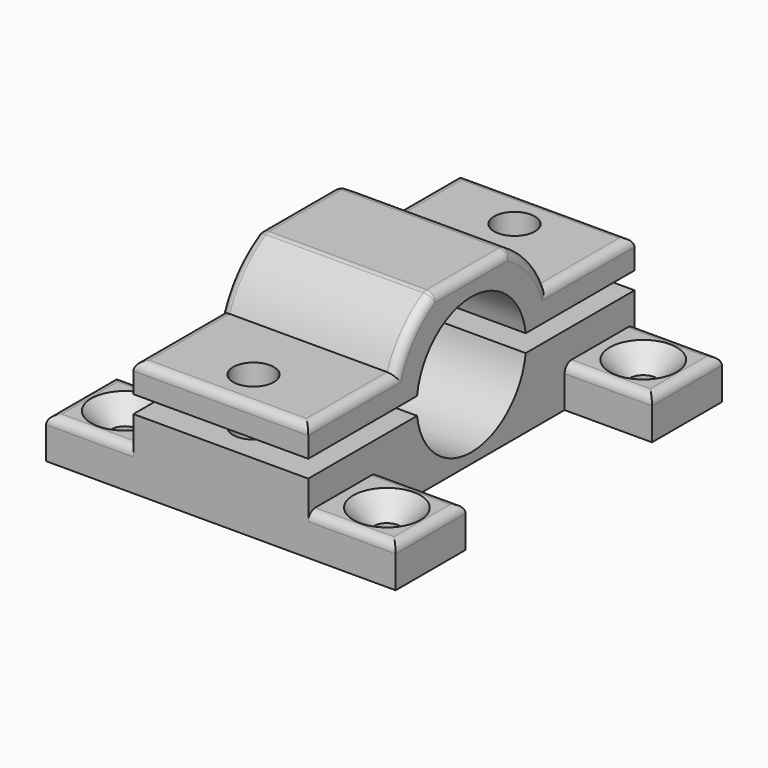
from build123d import *

# Parameters (mm, degrees)
F0_W      = 30
F0_H      = 70
F1_DEPTH  = 12
F2_W      = 70
F2_H      = 14
F3_DEPTH  = 15
F5_DEPTH  = 15
F7_DEPTH  = 15
F9_DEPTH  = 20.001
F11_DEPTH = 5
F12_W     = 15
F12_H     = 15
F12_R     = 2.25
F13_DEPTH = 7
F14_SIZE  = 3.5
F15_R     = 1.5
F15_2_R   = 1.5


with BuildPart() as f1:
    # F0 (on Top) → F1 (new body)
    with BuildSketch(Plane.XY):
        Rectangle(F0_W, F0_H)
    extrude(amount=F1_DEPTH)


with BuildPart() as f3:
    # F2 (on Right) → F3 (new body, symmetric)
    with BuildSketch(Plane.YZ):
        with Locations((0, 22)):
            Rectangle(F2_W, F2_H)
    extrude(amount=F3_DEPTH, both=True)


with BuildPart() as f5_tool:
    # F4 (on Right) → F5 (new body, symmetric)
    with BuildSketch(Plane.YZ):
        with BuildLine():
            ThreePointArc((11.75, 13.5), (0, 25.25), (-11.75, 13.5))
            Line((-11.75, 13.5), (0, 13.5))
            Line((0, 13.5), (0, 12))
            Line((0, 12), (-11.6538620208, 12))
            ThreePointArc((-11.6538620208, 12), (0.7515388398, 1.7740591264), (11.75, 13.5))
        make_face()
        with BuildLine():
            Line((0, 13.5), (-11.75, 13.5))
            ThreePointArc((-11.75, 13.5), (-11.7259408736, 12.7484611602), (-11.6538620208, 12))
            Line((-11.6538620208, 12), (0, 12))
            Line((0, 12), (0, 13.5))
        make_face()
    extrude(amount=F5_DEPTH, both=True)


with BuildPart() as f1_1:
    add(f1.part)

    # F5: cut by f5_tool
    add(f5_tool.part, mode=Mode.SUBTRACT)


with BuildPart() as f3_1:
    add(f3.part)

    # F5: cut by f5_tool
    add(f5_tool.part, mode=Mode.SUBTRACT)

    # F6 (on Right) → F7 (cut, symmetric)
    with BuildSketch(Plane.YZ):
        with BuildLine():
            ThreePointArc((-16.2480768093, 20), (-12.9903810568, 25.2260393996), (-8.1240384046, 29))
            Line((-8.1240384046, 29), (-35, 29))
            Line((-35, 29), (-35, 20))
            Line((-35, 20), (-16.2480768093, 20))
        make_face()
        with BuildLine():
            Line((35, 20), (35, 29))
            Line((35, 29), (8.1240384046, 29))
            ThreePointArc((8.1240384046, 29), (12.9903810568, 25.2260393996), (16.2480768093, 20))
            Line((16.2480768093, 20), (35, 20))
        make_face()
    extrude(amount=F7_DEPTH, both=True, mode=Mode.SUBTRACT)


with BuildPart() as f9_tool:
    # F8 (on face) → F9 (new body, through all)
    with BuildSketch(Plane.XY.offset(20)):
        with BuildLine():
            Line((3.5, 28), (-3.5, 28))
            ThreePointArc((-3.5, 28), (0, 24.5), (3.5, 28))
        make_face()
        with BuildLine():
            Line((3.5, -28), (-3.5, -28))
            ThreePointArc((-3.5, -28), (0, -31.5), (3.5, -28))
        make_face()
        with BuildLine():
            ThreePointArc((3.5, -28), (0, -24.5), (-3.5, -28))
            Line((-3.5, -28), (3.5, -28))
        make_face()
        with BuildLine():
            ThreePointArc((3.5, 28), (0, 31.5), (-3.5, 28))
            Line((-3.5, 28), (3.5, 28))
        make_face()
    extrude(amount=-F9_DEPTH)


with BuildPart() as f1_2:
    add(f1_1.part)

    # F9: cut by f9_tool
    add(f9_tool.part, mode=Mode.SUBTRACT)

    # F10 (on Top) → F11 (cut)
    with BuildSketch(Plane.XY):
        Polygon((3.4641016151, -22), (-3.4641016151, -22), (-6.9282032303, -28), (-3.4641016151, -34), (3.4641016151, -34), (6.9282032303, -28), align=None)
        Polygon((3.4641016151, 21.9635427939), (6.9282032303, 27.9635427939), (3.4641016151, 33.9635427939), (-3.4641016151, 33.9635427939), (-6.9282032303, 27.9635427939), (-3.4641016151, 21.9635427939), align=None)
    extrude(amount=F11_DEPTH, mode=Mode.SUBTRACT)

    # F12 (on Top) → F13 (join)
    with BuildSketch(Plane.XY):
        with Locations((-22.5, 27.5)):
            Rectangle(F12_W, F12_H)
        with Locations((-22.5, 27.5)):
            Circle(F12_R, mode=Mode.SUBTRACT)
        with Locations((-22.5, -27.5)):
            Rectangle(F12_W, F12_H)
        with Locations((-22.5, -27.5)):
            Circle(F12_R, mode=Mode.SUBTRACT)
        with Locations((22.5, -27.5)):
            Rectangle(F12_W, F12_H)
        with Locations((22.5, -27.5)):
            Circle(F12_R, mode=Mode.SUBTRACT)
        with Locations((22.5, 27.5)):
            Rectangle(F12_W, F12_H)
        with Locations((22.5, 27.5)):
            Circle(F12_R, mode=Mode.SUBTRACT)
    extrude(amount=F13_DEPTH)

    # F14
    f14_edges = [f1_2.edges().sort_by_distance(p)[0] for p in [
        (-24.75, 27.5, 7),
        (20.25, 27.5, 7),
        (20.25, -27.5, 7),
        (-24.75, -27.5, 7),
    ]]
    chamfer(f14_edges, length=F14_SIZE)

    # F15#2
    f15_2_edges = [f1_2.edges().sort_by_distance(p)[0] for p in [
        (-22.5, -35, 7),
        (-30, -27.5, 7),
        (-22.5, -20, 7),
        (22.5, -35, 7),
        (30, -27.5, 7),
        (22.5, -20, 7),
        (22.5, 20, 7),
        (30, 27.5, 7),
        (22.5, 35, 7),
        (-22.5, 35, 7),
        (-30, 27.5, 7),
        (-22.5, 20, 7),
    ]]
    fillet(f15_2_edges, radius=F15_2_R)


with BuildPart() as f3_2:
    add(f3_1.part)

    # F9: cut by f9_tool
    add(f9_tool.part, mode=Mode.SUBTRACT)

    # F15
    f15_edges = [f3_2.edges().sort_by_distance(p)[0] for p in [
        (-15, 25.624038, 20),
        (0, 35, 20),
        (15, 25.624038, 20),
        (15, 12.990381, 25.226039),
        (-15, 12.990381, 25.226039),
        (-15, 0, 29),
        (15, 0, 29),
        (15, -12.990381, 25.226039),
        (-15, -12.990381, 25.226039),
        (-15, -25.624038, 20),
        (0, -35, 20),
        (15, -25.624038, 20),
        (0, -8.124038, 29),
        (0, 8.124038, 29),
    ]]
    fillet(f15_edges, radius=F15_R)


solid = Compound([f1_2.part, f3_2.part])
